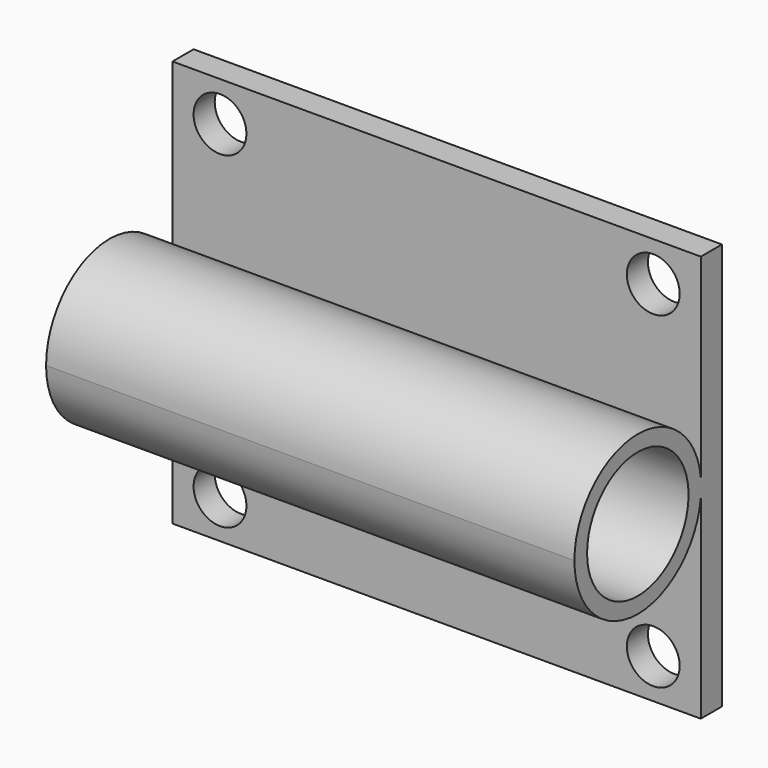
from build123d import *

# Parameters (mm, degrees)
F0_W     = 100
F0_H     = 77
F1_DEPTH = 5
F3_D     = 10
F4_R     = 12
F5_DEPTH = 100


with BuildPart() as f1:
    # F0 (on Front) → F1 (new body)
    with BuildSketch(Plane.XZ):
        with Locations((-50, 38.5)):
            Rectangle(F0_W, F0_H)
    extrude(amount=F1_DEPTH)

    # F3 (through all)
    with Locations(Plane.XZ.offset(5)):
        with Locations((-91, 69.5), (-9, 69.5), (-91, 7.5), (-9, 7.5)):
            Hole(F3_D / 2)

    # F4 (on face) → F5 (join, through all)
    with BuildSketch(Plane(origin=(-100, 0, 0), x_dir=(0, -1, 0), z_dir=(-1, 0, 0))):
        with BuildLine():
            ThreePointArc((5, 36.770838), (20.766025, 23.525021), (34.9, 38.5))
            ThreePointArc((34.9, 38.5), (20.766025, 53.474979), (5, 40.229162))
            Line((5, 40.229162), (5, 36.770838))
        make_face()
        with Locations((19.9, 38.5)):
            Circle(F4_R, mode=Mode.SUBTRACT)
    extrude(amount=-F5_DEPTH)


solid = f1.part
